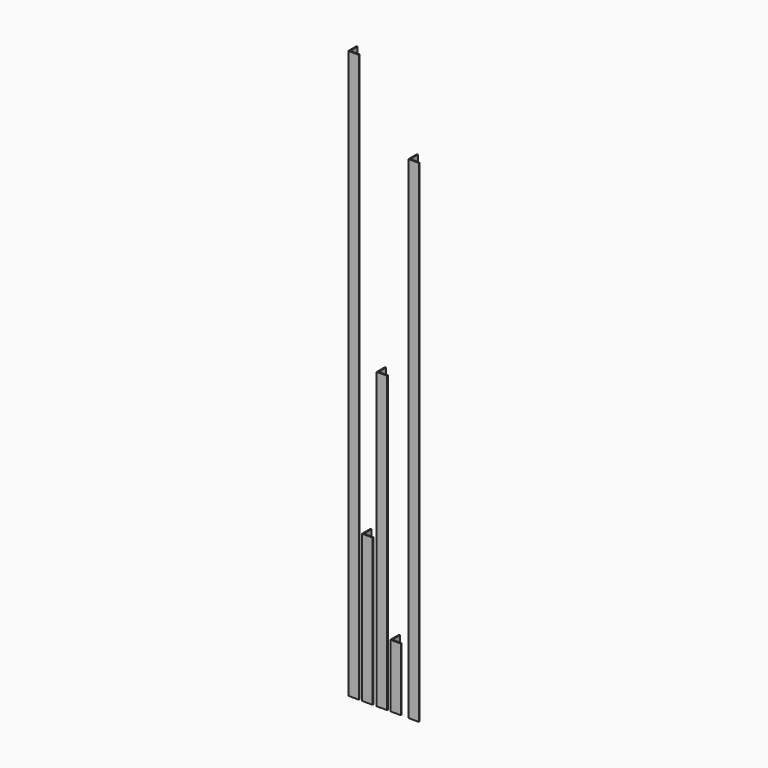
from build123d import *

# Parameters (mm, degrees)
F1_DEPTH = 2700
F3_DEPTH = 700
F6_DEPTH = 1400
F7_DEPTH = 300
F9_DEPTH = 2340


with BuildPart() as f1:
    # F0 (on Top) → F1 (new body)
    with BuildSketch(Plane.XY):
        Polygon((0, 50), (0, 0), (50, 0), (50, 5), (5, 5), (5, 50), align=None)
    extrude(amount=F1_DEPTH)


with BuildPart() as f3:
    # F2 (on Top) → F3 (new body)
    with BuildSketch(Plane.XY):
        Polygon((65.427296, 50), (65.427296, 0), (115.427296, 0), (115.427296, 5), (70.427296, 5), (70.427296, 50), align=None)
    extrude(amount=F3_DEPTH)


with BuildPart() as f6:
    # F4 (on Top) → F6 (new body)
    with BuildSketch(Plane.XY):
        Polygon((135.325179, 50), (135.325179, 0), (185.325179, 0), (185.325179, 5), (140.325179, 5), (140.325179, 50), align=None)
    extrude(amount=F6_DEPTH)


with BuildPart() as f7:
    # F5 (on Top) → F7 (new body)
    with BuildSketch(Plane.XY):
        Polygon((200.397983, 50), (200.397983, 0), (250.397983, 0), (250.397983, 5), (205.397983, 5), (205.397983, 50), align=None)
    extrude(amount=F7_DEPTH)


with BuildPart() as f9:
    # F8 (on Top) → F9 (new body)
    with BuildSketch(Plane.XY):
        Polygon((286.016911, 50), (286.016911, 0), (336.016911, 0), (336.016911, 5), (291.016911, 5), (291.016911, 50), align=None)
    extrude(amount=F9_DEPTH)


solid = Compound([f1.part, f3.part, f6.part, f7.part, f9.part])
